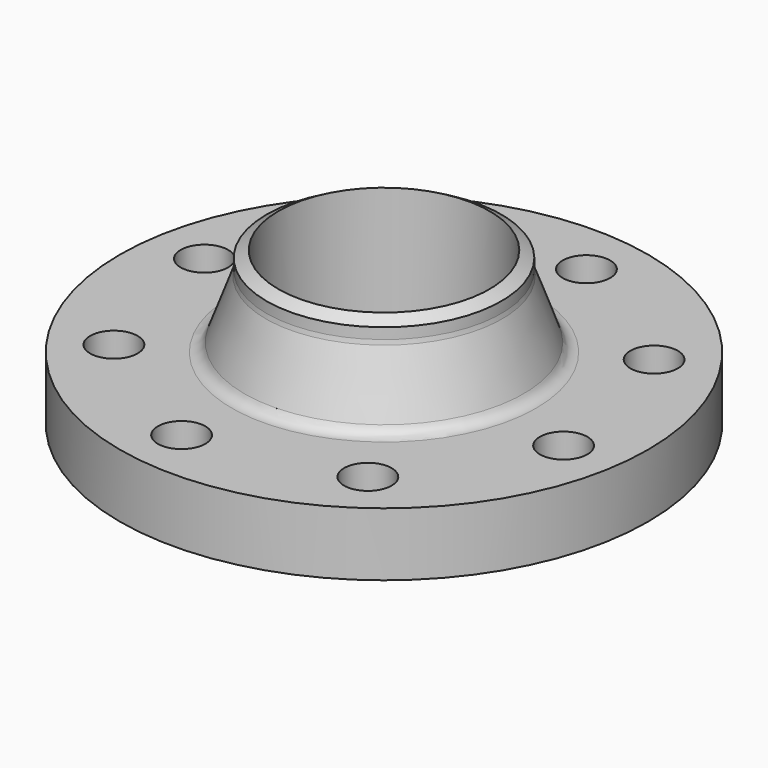
from build123d import *

# Parameters (mm, degrees)
F2_R     = 9
F3_DEPTH = 25
F4_R     = 5


with BuildPart() as f1:
    # F0 (on Front) → F1 (revolve)
    with BuildSketch(Plane.XZ):
        Polygon((-100, 0), (-40, 0), (-40, 58), (-44.45, 55.430791), (-44.45, 50.430791), (-54.070021, 24), (-100, 24), align=None)
    revolve(axis=Axis((0, 0, 3.000721), (0, 0, -1)))

    # F2 (on face) → F3 (cut)
    with BuildSketch(Plane.XY.offset(24)):
        with Locations((-46.161917, 65.338177)):
            Circle(F2_R)
        with Locations((-78.842473, 13.559663)):
            Circle(F2_R)
        with Locations((-65.338177, -46.161917)):
            Circle(F2_R)
        with Locations((-13.559663, -78.842473)):
            Circle(F2_R)
        with Locations((46.161917, -65.338177)):
            Circle(F2_R)
        with Locations((78.842473, -13.559663)):
            Circle(F2_R)
        with Locations((65.338177, 46.161917)):
            Circle(F2_R)
        with Locations((13.559663, 78.842473)):
            Circle(F2_R)
    extrude(amount=-F3_DEPTH, mode=Mode.SUBTRACT)

    # F4
    f4_edges = [f1.edges().sort_by_distance(p)[0] for p in [
        (54.070021, 0, 24),
        (44.45, 0, 50.430791),
    ]]
    fillet(f4_edges, radius=F4_R)


solid = f1.part
